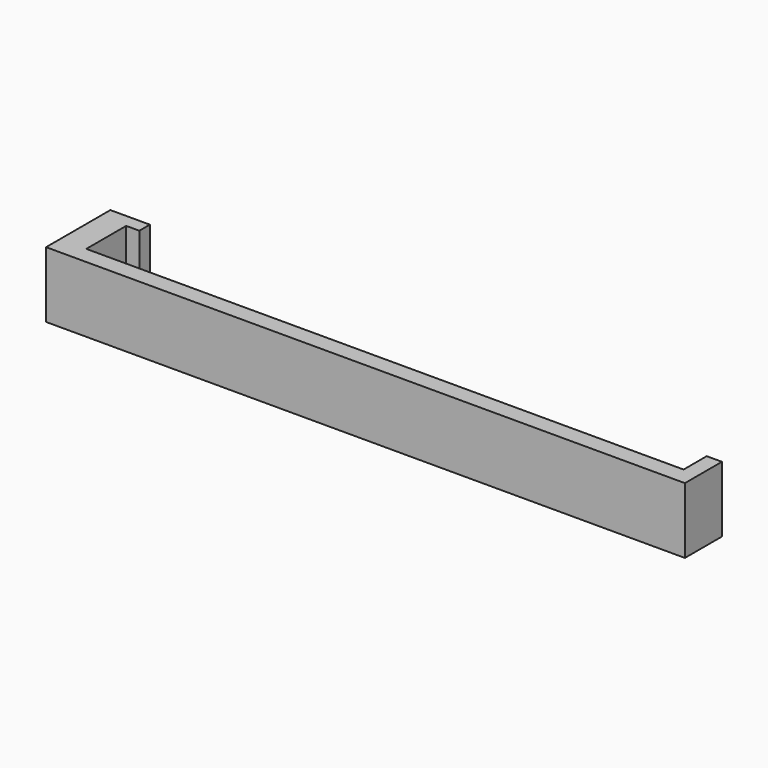
from build123d import *

# Parameters (mm, degrees)
PAD_DEPTH = 10


with BuildPart() as part:
    # Sketch → Pad (new body)
    with BuildSketch(Plane.XY):
        Polygon((0, 0), (97, 0), (97, 7.02511), (94.693367, 7.02511), (94.693367, 2.632499), (4, 2.632499), (4, 10.2), (6, 10.2), (6, 12.2), (0, 12.2), align=None)
    extrude(amount=PAD_DEPTH)


solid = part.part
